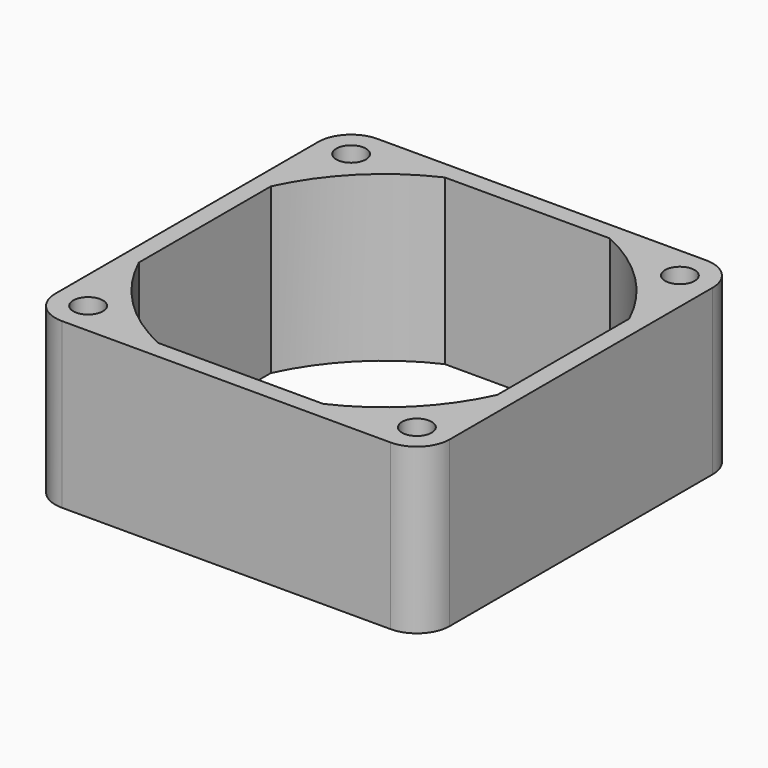
from build123d import *

# Parameters (mm, degrees)
F0_R     = 2.25
F1_DEPTH = 12.5
F2_R     = 5


with BuildPart() as f1:
    # F0 (on Top) → F1 (new body, symmetric)
    with BuildSketch(Plane.XY):
        with BuildLine():
            Line((-12.5474100913, 30), (-30, 30))
            Line((-30, 30), (-30, 12.5474100913))
            Line((-30, 12.5474100913), (-27.25, 12.5474100913))
            ThreePointArc((-27.25, 12.5474100913), (-21.2132034356, 21.2132034356), (-12.5474100913, 27.25))
            Line((-12.5474100913, 27.25), (-12.5474100913, 30))
        make_face()
        with Locations((-25, 25)):
            Circle(F0_R, mode=Mode.SUBTRACT)
        with BuildLine():
            Line((-2.31e-08, 30), (-12.5474100913, 30))
            Line((-12.5474100913, 30), (-12.5474100913, 27.25))
            ThreePointArc((-12.5474100913, 27.25), (-6.4226163006, 29.3044365217), (-2.31e-08, 30))
        make_face()
        with BuildLine():
            Line((-27.25, 12.5474100913), (-30, 12.5474100913))
            Line((-30, 12.5474100913), (-30, 3.74e-08))
            ThreePointArc((-30, 3.74e-08), (-29.3044365202, 6.4226163076), (-27.25, 12.5474100913))
        make_face()
        with BuildLine():
            Line((12.5474100913, 30), (-2.31e-08, 30))
            ThreePointArc((-2.31e-08, 30), (6.422616278, 29.3044365267), (12.5474100913, 27.25))
            Line((12.5474100913, 27.25), (12.5474100913, 30))
        make_face()
        with BuildLine():
            ThreePointArc((12.5474100913, 27.25), (6.422616278, 29.3044365267), (-2.31e-08, 30))
            ThreePointArc((-2.31e-08, 30), (-6.4226163006, 29.3044365217), (-12.5474100913, 27.25))
            Line((-12.5474100913, 27.25), (12.5474100913, 27.25))
        make_face()
        with BuildLine():
            ThreePointArc((-27.25, -12.5474100913), (-29.3044365282, -6.4226162711), (-30, 3.74e-08))
            Line((-30, 3.74e-08), (-30, -12.5474100913))
            Line((-30, -12.5474100913), (-27.25, -12.5474100913))
        make_face()
        with BuildLine():
            ThreePointArc((-27.25, 12.5474100913), (-29.3044365202, 6.4226163076), (-30, 3.74e-08))
            ThreePointArc((-30, 3.74e-08), (-29.3044365282, -6.4226162711), (-27.25, -12.5474100913))
            Line((-27.25, -12.5474100913), (-27.25, 12.5474100913))
        make_face()
        with BuildLine():
            Line((30, 30), (12.5474100913, 30))
            Line((12.5474100913, 30), (12.5474100913, 27.25))
            ThreePointArc((12.5474100913, 27.25), (21.2132034356, 21.2132034356), (27.25, 12.5474100913))
            Line((27.25, 12.5474100913), (30, 12.5474100913))
            Line((30, 12.5474100913), (30, 30))
        make_face()
        with Locations((25, 25)):
            Circle(F0_R, mode=Mode.SUBTRACT)
        with BuildLine():
            Line((-27.25, -12.5474100913), (-30, -12.5474100913))
            Line((-30, -12.5474100913), (-30, -30))
            Line((-30, -30), (-12.5474100913, -30))
            Line((-12.5474100913, -30), (-12.5474100913, -27.25))
            ThreePointArc((-12.5474100913, -27.25), (-21.2132034356, -21.2132034356), (-27.25, -12.5474100913))
        make_face()
        with Locations((-25, -25)):
            Circle(F0_R, mode=Mode.SUBTRACT)
        with BuildLine():
            Line((30, 12.5474100913), (27.25, 12.5474100913))
            ThreePointArc((27.25, 12.5474100913), (29.3044365242, 6.4226162893), (30, 0))
            Line((30, 0), (30, 12.5474100913))
        make_face()
        with BuildLine():
            ThreePointArc((30, 0), (29.3044365242, 6.4226162893), (27.25, 12.5474100913))
            Line((27.25, 12.5474100913), (27.25, -12.5474100913))
            ThreePointArc((27.25, -12.5474100913), (29.3044365242, -6.4226162893), (30, 0))
        make_face()
        with BuildLine():
            Line((12.5474100913, -27.25), (-12.5474100913, -27.25))
            ThreePointArc((-12.5474100913, -27.25), (-6.4226162893, -29.3044365242), (0, -30))
            ThreePointArc((0, -30), (6.4226162893, -29.3044365242), (12.5474100913, -27.25))
        make_face()
        with BuildLine():
            ThreePointArc((0, -30), (-6.4226162893, -29.3044365242), (-12.5474100913, -27.25))
            Line((-12.5474100913, -27.25), (-12.5474100913, -30))
            Line((-12.5474100913, -30), (0, -30))
        make_face()
        with BuildLine():
            Line((30, -12.5474100913), (30, 0))
            ThreePointArc((30, 0), (29.3044365242, -6.4226162893), (27.25, -12.5474100913))
            Line((27.25, -12.5474100913), (30, -12.5474100913))
        make_face()
        with BuildLine():
            Line((30, -12.5474100913), (27.25, -12.5474100913))
            ThreePointArc((27.25, -12.5474100913), (21.2132034356, -21.2132034356), (12.5474100913, -27.25))
            Line((12.5474100913, -27.25), (12.5474100913, -30))
            Line((12.5474100913, -30), (30, -30))
            Line((30, -30), (30, -12.5474100913))
        make_face()
        with Locations((25, -25)):
            Circle(F0_R, mode=Mode.SUBTRACT)
        with BuildLine():
            ThreePointArc((12.5474100913, -27.25), (6.4226162893, -29.3044365242), (0, -30))
            Line((0, -30), (12.5474100913, -30))
            Line((12.5474100913, -30), (12.5474100913, -27.25))
        make_face()
    extrude(amount=F1_DEPTH, both=True)

    # F2
    f2_edges = [f1.edges().sort_by_distance(p)[0] for p in [
        (-30, 30, 0),
        (30, -30, 0),
        (30, 30, 0),
        (-30, -30, 0),
    ]]
    fillet(f2_edges, radius=F2_R)


solid = f1.part
